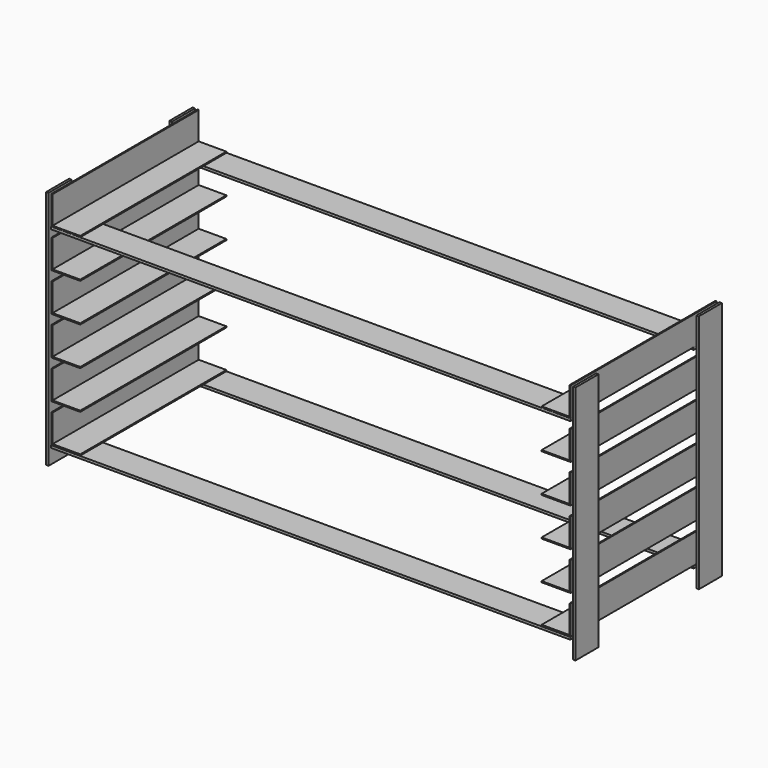
from build123d import *

# Parameters (mm, degrees)
F1_DEPTH       = 60.325
F12_W          = 1.5875
F12_H          = 19.05
F13_DEPTH      = 19.05
F13_DEPTH_BACK = 139.7
F14_W          = 19.05
F14_H          = 1.5875
F15_DEPTH      = 171.45
F15_DEPTH_BACK = 171.45


with BuildPart() as f1:
    # F0 (on Front) → F1 (new body, symmetric)
    with BuildSketch(Plane.XZ):
        Polygon((-170.688, 19.05), (-171.45, 19.05), (-171.45, 0), (-152.4, 0), (-152.4, 0.762), (-170.688, 0.762), align=None)
    extrude(amount=F1_DEPTH, both=True)


with BuildPart() as f1b:
    # F0 (on Front) → F1, piece 2 (new body, symmetric)
    with BuildSketch(Plane.XZ):
        Polygon((170.688, 0.762), (152.4, 0.762), (152.4, 0), (171.45, 0), (171.45, 19.05), (170.688, 19.05), align=None)
    extrude(amount=F1_DEPTH, both=True)


with BuildPart() as f2_1:
    # F2: copy of F1
    add(f1.part.moved(Location((0, 0, -25.4))))


with BuildPart() as f3_1:
    # F3: copy of F2_1
    add(f2_1.part.moved(Location((0, 0, -25.4))))


with BuildPart() as f4_1:
    # F4: copy of F3_1
    add(f3_1.part.moved(Location((0, 0, -25.4))))


with BuildPart() as f5_1:
    # F5: copy of F4_1
    add(f4_1.part.moved(Location((0, 0, -25.4))))


with BuildPart() as f6_1:
    # F6: copy of F5_1
    add(f5_1.part.moved(Location((0, 0, -25.4))))


with BuildPart() as f7_1:
    # F7: copy of F1b
    add(f1b.part.moved(Location((0, 0, -25.4))))


with BuildPart() as f8_1:
    # F8: copy of F7_1
    add(f7_1.part.moved(Location((0, 0, -25.4))))


with BuildPart() as f9_1:
    # F9: copy of F8_1
    add(f8_1.part.moved(Location((0, 0, -25.4))))


with BuildPart() as f10_1:
    # F10: copy of F9_1
    add(f9_1.part.moved(Location((0, 0, -25.4))))


with BuildPart() as f11_1:
    # F11: copy of F10_1
    add(f10_1.part.moved(Location((0, 0, -25.4))))


with BuildPart() as f13:
    # F12 (on Top) → F13 (new body, two sides)
    with BuildSketch(Plane.XY) as f13_sk:
        with Locations((174.0578511477, 50.9462617338)):
            Rectangle(F12_W, F12_H)
    extrude(amount=F13_DEPTH)
    extrude(f13_sk.sketch, amount=-F13_DEPTH_BACK)


with BuildPart() as f13b:
    # F12 (on Top) → F13, piece 2 (new body, two sides)
    with BuildSketch(Plane.XY) as f13_2_sk:
        with Locations((174.0578511477, -50.9462617338)):
            Rectangle(F12_W, F12_H)
    extrude(amount=F13_DEPTH)
    extrude(f13_2_sk.sketch, amount=-F13_DEPTH_BACK)


with BuildPart() as f13c:
    # F12 (on Top) → F13, piece 3 (new body, two sides)
    with BuildSketch(Plane.XY) as f13_3_sk:
        with Locations((-174.0578511477, -50.9462617338)):
            Rectangle(F12_W, F12_H)
    extrude(amount=F13_DEPTH)
    extrude(f13_3_sk.sketch, amount=-F13_DEPTH_BACK)


with BuildPart() as f13d:
    # F12 (on Top) → F13, piece 4 (new body, two sides)
    with BuildSketch(Plane.XY) as f13_4_sk:
        with Locations((-174.0578511477, 50.9462617338)):
            Rectangle(F12_W, F12_H)
    extrude(amount=F13_DEPTH)
    extrude(f13_4_sk.sketch, amount=-F13_DEPTH_BACK)


with BuildPart() as f15:
    # F14 (on Right) → F15 (new body, two sides)
    with BuildSketch(Plane.YZ) as f15_sk:
        with Locations((-50.9529683053, -127.9154270887)):
            Rectangle(F14_W, F14_H)
    extrude(amount=F15_DEPTH)
    extrude(f15_sk.sketch, amount=-F15_DEPTH_BACK)


with BuildPart() as f15b:
    # F14 (on Right) → F15, piece 2 (new body, two sides)
    with BuildSketch(Plane.YZ) as f15_2_sk:
        with Locations((50.9529683053, -127.9154270887)):
            Rectangle(F14_W, F14_H)
    extrude(amount=F15_DEPTH)
    extrude(f15_2_sk.sketch, amount=-F15_DEPTH_BACK)


with BuildPart() as f15c:
    # F14 (on Right) → F15, piece 3 (new body, two sides)
    with BuildSketch(Plane.YZ) as f15_3_sk:
        with Locations((-50.9456592858, -0.79375)):
            Rectangle(F14_W, F14_H)
    extrude(amount=F15_DEPTH)
    extrude(f15_3_sk.sketch, amount=-F15_DEPTH_BACK)


with BuildPart() as f15d:
    # F14 (on Right) → F15, piece 4 (new body, two sides)
    with BuildSketch(Plane.YZ) as f15_4_sk:
        with Locations((50.9456592858, -0.79375)):
            Rectangle(F14_W, F14_H)
    extrude(amount=F15_DEPTH)
    extrude(f15_4_sk.sketch, amount=-F15_DEPTH_BACK)


solid = Compound([f1.part, f1b.part, f2_1.part, f3_1.part, f4_1.part, f5_1.part, f6_1.part, f7_1.part, f8_1.part, f9_1.part, f10_1.part, f11_1.part, f13.part, f13b.part, f13c.part, f13d.part, f15.part, f15b.part, f15c.part, f15d.part])
